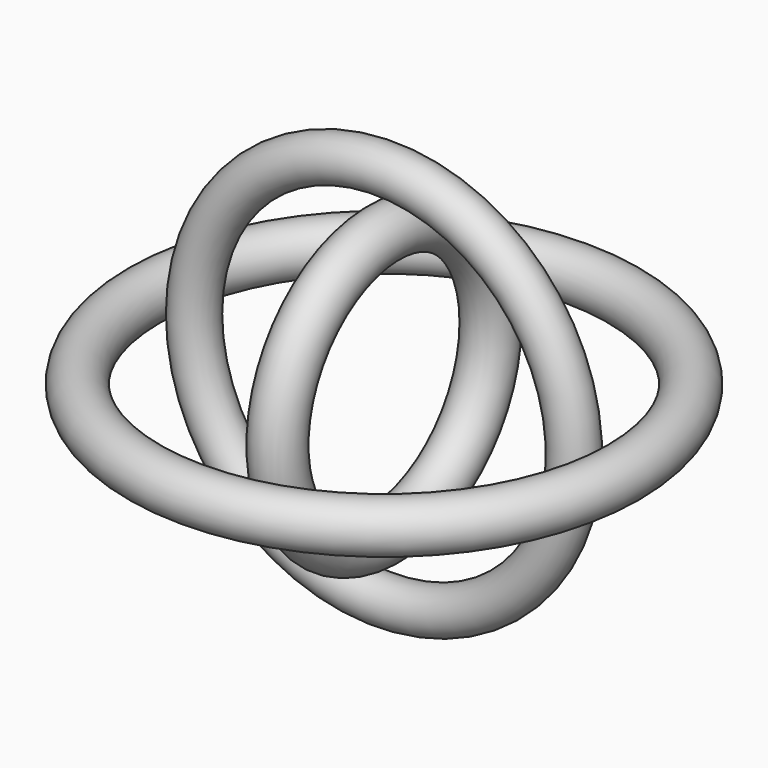
from build123d import *

# Parameters (mm, degrees)
F0_R = 7.641258
F2_R = 6.829672
F4_R = 7.532254


with BuildPart() as f1:
    # F0 (on Front) → F1 (revolve)
    with BuildSketch(Plane.XZ):
        with Locations((-74.365016, 0)):
            Circle(F0_R)
    revolve(axis=Axis((0, 0, -1.255513), (0, 0, -1)))


with BuildPart() as f3:
    # F2 (on Top) → F3 (revolve)
    with BuildSketch(Plane.XY):
        with Locations((-58.959682, 0)):
            Circle(F2_R)
    revolve(axis=Axis((0, -1.696682, 0), (0, 1, 0)))


with BuildPart() as f5:
    # F4 (on Top) → F5 (revolve)
    with BuildSketch(Plane.XY):
        with Locations((0, 41.338507)):
            Circle(F4_R)
    revolve(axis=Axis((0.801145, 0, 0), (1, 0, 0)))


solid = Compound([f1.part, f3.part, f5.part])
